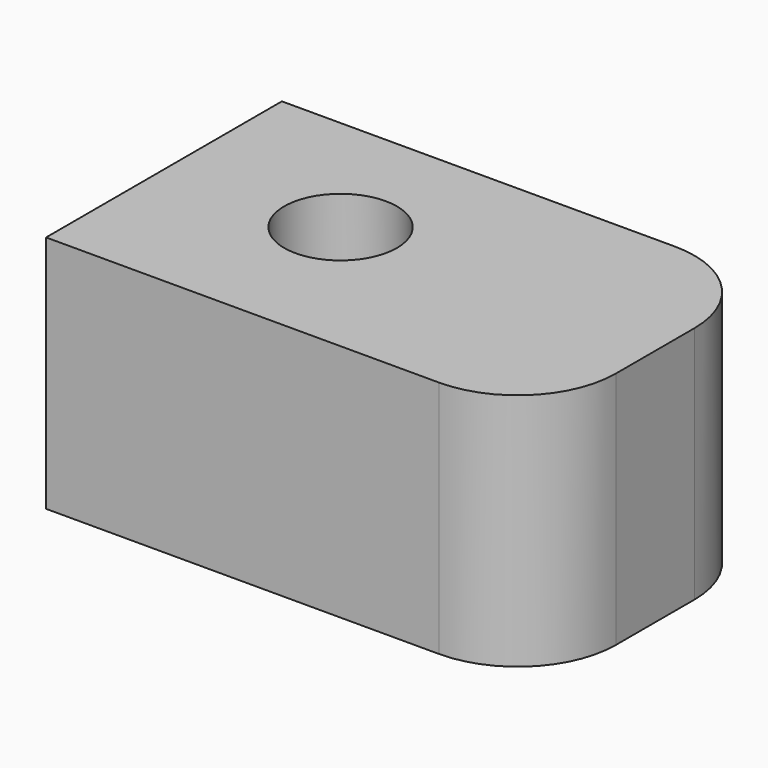
from build123d import *

# Parameters (mm, degrees)
F0_W     = 127
F0_H     = 76.2
F1_DEPTH = 61.777094
F2_R     = 25.4
F3_R     = 14.58048
F4_DEPTH = 29.911026


with BuildPart() as f1:
    # F0 (on Top) → F1 (new body)
    with BuildSketch(Plane.XY):
        with Locations((-2.416426, -2.546754)):
            Rectangle(F0_W, F0_H)
    extrude(amount=F1_DEPTH)

    # F2
    f2_edges = [f1.edges().sort_by_distance(p)[0] for p in [
        (61.083574, -40.646754, 30.888547),
        (61.083574, 35.553246, 30.888547),
    ]]
    fillet(f2_edges, radius=F2_R)

    # F3 (on face) → F4 (cut)
    with BuildSketch(Plane.XY.offset(61.777094)):
        with Locations((-22.297775, 0)):
            Circle(F3_R)
    extrude(amount=-F4_DEPTH, mode=Mode.SUBTRACT)


solid = f1.part
